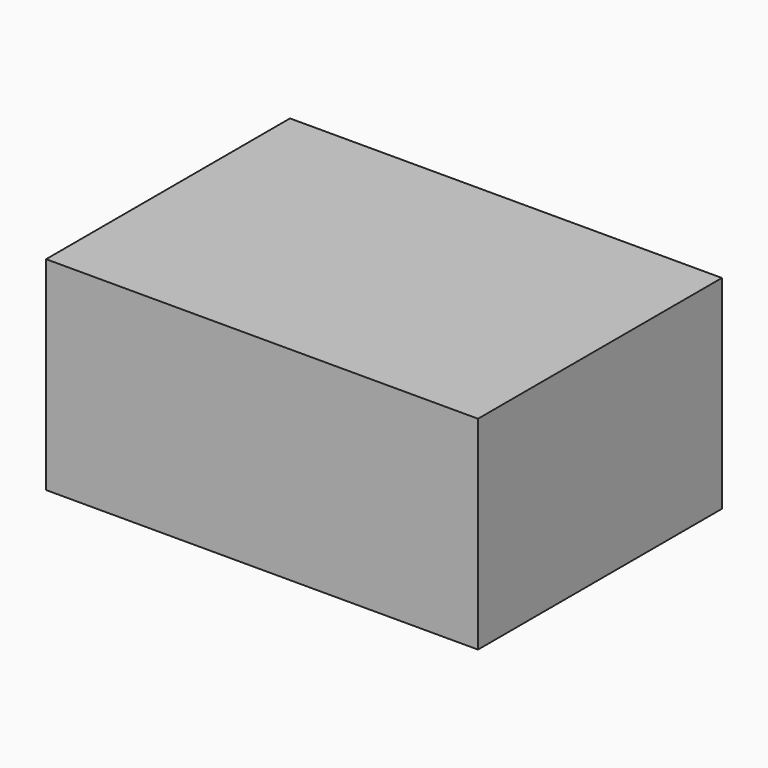
from build123d import *

# Parameters (mm, degrees)
F0_W     = 107.95
F0_H     = 76.2
F0_W_2   = 97.79
F0_H_2   = 66.04
F1_DEPTH = 50.8
F2_W     = 97.79
F2_H     = 66.04
F3_DEPTH = 45.72


with BuildPart() as f1:
    # F0 (on Top) → F1 (new body)
    with BuildSketch(Plane.XY):
        with Locations((53.975, 38.1)):
            Rectangle(F0_W, F0_H)
        with Locations((53.975, 38.1)):
            Rectangle(F0_W_2, F0_H_2, mode=Mode.SUBTRACT)
        with Locations((53.975, 38.1)):
            Rectangle(F0_W_2, F0_H_2)
    extrude(amount=F1_DEPTH)

    # F2 (on face) → F3 (cut)
    with BuildSketch(Plane(origin=(0, 0, 0), x_dir=(1, 0, 0), z_dir=(0, 0, -1))):
        with Locations((53.975, -38.1)):
            Rectangle(F2_W, F2_H)
    extrude(amount=-F3_DEPTH, mode=Mode.SUBTRACT)


solid = f1.part
